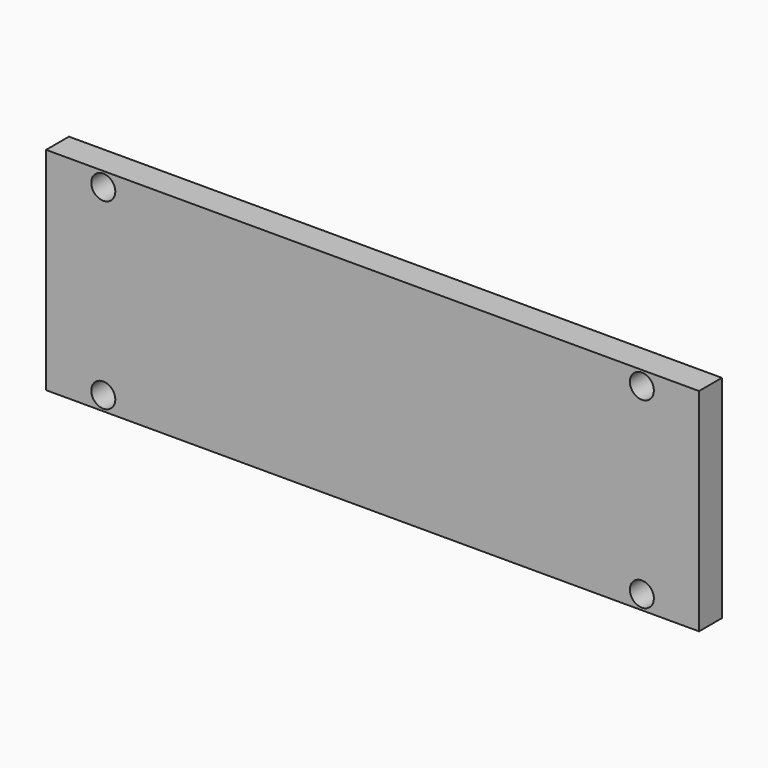
from build123d import *

# Parameters (mm, degrees)
F0_W     = 145
F0_H     = 46.99
F1_DEPTH = 6.35
F3_D     = 5.334
F3_DEPTH = 76.2


with BuildPart() as f1:
    # F0 (on Front) → F1 (new body)
    with BuildSketch(Plane.XZ):
        with Locations((72.5, 23.495)):
            Rectangle(F0_W, F0_H)
    extrude(amount=F1_DEPTH)

    # F3
    with Locations(Plane.XZ.offset(6.35)):
        with Locations((12.7, 43.815), (132.3, 43.815), (12.7, 3.175), (132.3, 3.175)):
            Hole(F3_D / 2, depth=F3_DEPTH)


solid = f1.part
